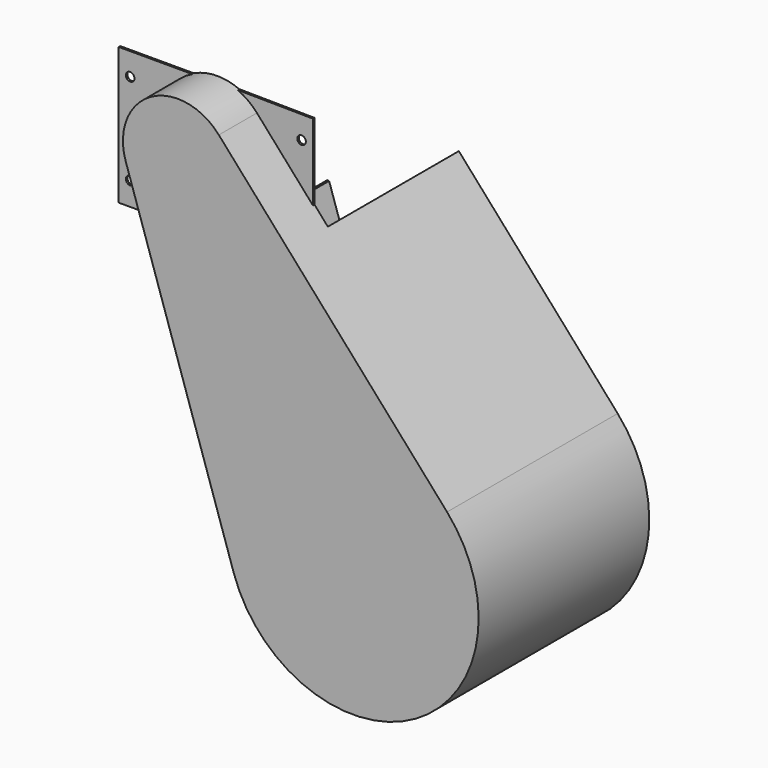
from build123d import *

# Parameters (mm, degrees)
F1_DEPTH  = 177.8
F3_T      = -1.5875
F4_W      = 201.5869445521
F4_H      = 226.8152372871
F5_DEPTH  = 137.796
F6_R      = 3.571875
F7_DEPTH  = 1.5875
F9_W      = 76.2
F9_H      = 19.05
F10_DEPTH = 154.0954613767


with BuildPart() as f1:
    # F0 (on Front) → F1 (new body)
    with BuildSketch(Plane.XZ):
        with BuildLine():
            Line((224.489292991, -184.5372190302), (34.2280551234, 30.3110316959))
            ThreePointArc((34.2280551234, 30.3110316959), (-22.7900998011, 39.6349561758), (-43.415004865, -14.3337277974))
            Line((-43.415004865, -14.3337277974), (46.5572805176, -286.8481262024))
            ThreePointArc((46.5572805176, -286.8481262024), (198.2773120441, -344.8301079029), (224.489292991, -184.5372190302))
        make_face()
    extrude(amount=-F1_DEPTH)

    # F3
    f3_openings = [f1.faces().sort_by_distance(p)[0] for p in [
        (100.456199, 177.8, -174.706432),
    ]]
    offset(amount=F3_T, openings=f3_openings)

    # F4 (on offset) → F5 (cut, through all)
    with BuildSketch(Plane.YZ.offset(92.075)):
        with Locations((142.068472276, 21.3326186436)):
            Rectangle(F4_W, F4_H)
    extrude(amount=-F5_DEPTH, mode=Mode.SUBTRACT)

    # F6 (on face) → F7 (join)
    with BuildSketch(Plane(origin=(0, 41.275, 0), x_dir=(-1, 0, 0), z_dir=(0, 1, 0))):
        with BuildLine():
            Line((-13.52243099, 42.0097776282), (-80.9625, 41.275))
            Line((-80.9625, 41.275), (-80.9625, -24.8573199515))
            Line((-80.9625, -24.8573199515), (-33.0395809871, 29.2585653176))
            ThreePointArc((-33.0395809871, 29.2585653176), (-24.1382185276, 36.9462306949), (-13.52243099, 42.0097776282))
        make_face()
        with Locations((-71.4375, 22.47392)):
            Circle(F6_R, mode=Mode.SUBTRACT)
        with BuildLine():
            Line((80.9625, -73.025), (80.9625, 41.275))
            Line((80.9625, 41.275), (15.6221615422, 41.275))
            ThreePointArc((15.6221615422, 41.275), (39.833691772, 18.9988040694), (41.9075394183, -13.8360289155))
            Line((41.9075394183, -13.8360289155), (22.3659407759, -73.025))
            Line((22.3659407759, -73.025), (80.9625, -73.025))
        make_face()
        with Locations((71.4375, -53.72608)):
            Circle(F6_R, mode=Mode.SUBTRACT)
        with Locations((71.4375, -15.62608)):
            Circle(F6_R, mode=Mode.SUBTRACT)
        with Locations((71.4375, 22.47392)):
            Circle(F6_R, mode=Mode.SUBTRACT)
    extrude(amount=-F7_DEPTH)

    # F9 (on offset) → F10 (cut, up to face)
    with BuildSketch(Plane.YZ.offset(-152.4)):
        with Locations((139.7, -133.35)):
            Rectangle(F9_W, F9_H)
    extrude(amount=F10_DEPTH, mode=Mode.SUBTRACT)


solid = f1.part
